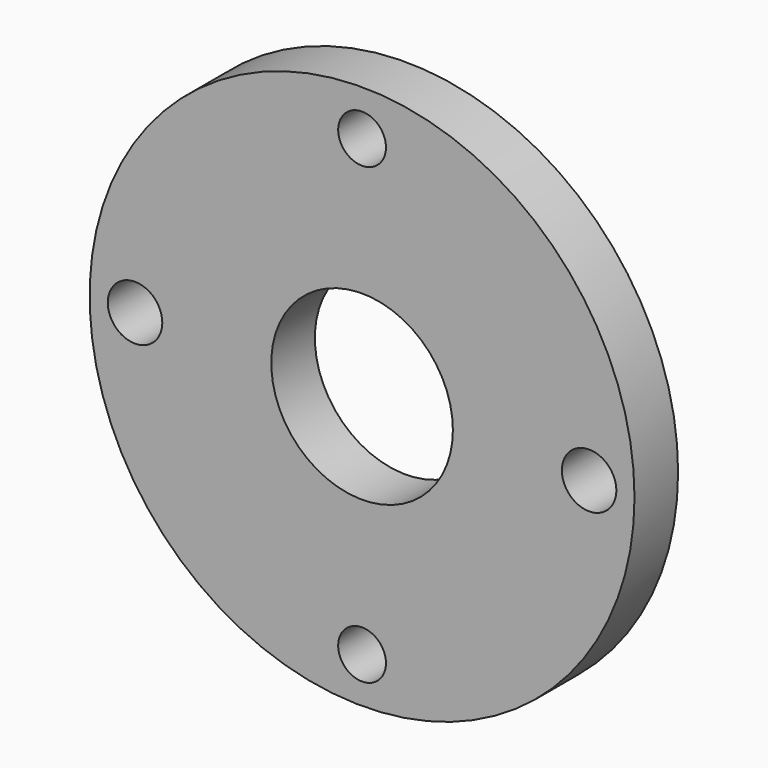
from build123d import *

# Parameters (mm, degrees)
F0_R     = 15
F0_R_2   = 1.314598
F0_R_3   = 1.5
F0_R_4   = 5
F1_DEPTH = 3


with BuildPart() as f1:
    # F0 (on Front) → F1 (new body)
    with BuildSketch(Plane.XZ):
        Circle(F0_R)
        with Locations((0, -12.5)):
            Circle(F0_R_2, mode=Mode.SUBTRACT)
        with Locations((-12.5, 0)):
            Circle(F0_R_3, mode=Mode.SUBTRACT)
        Circle(F0_R_4, mode=Mode.SUBTRACT)
        with Locations((12.5, 0)):
            Circle(F0_R_3, mode=Mode.SUBTRACT)
        with Locations((0, 12.5)):
            Circle(F0_R_2, mode=Mode.SUBTRACT)
    extrude(amount=F1_DEPTH)


solid = f1.part
